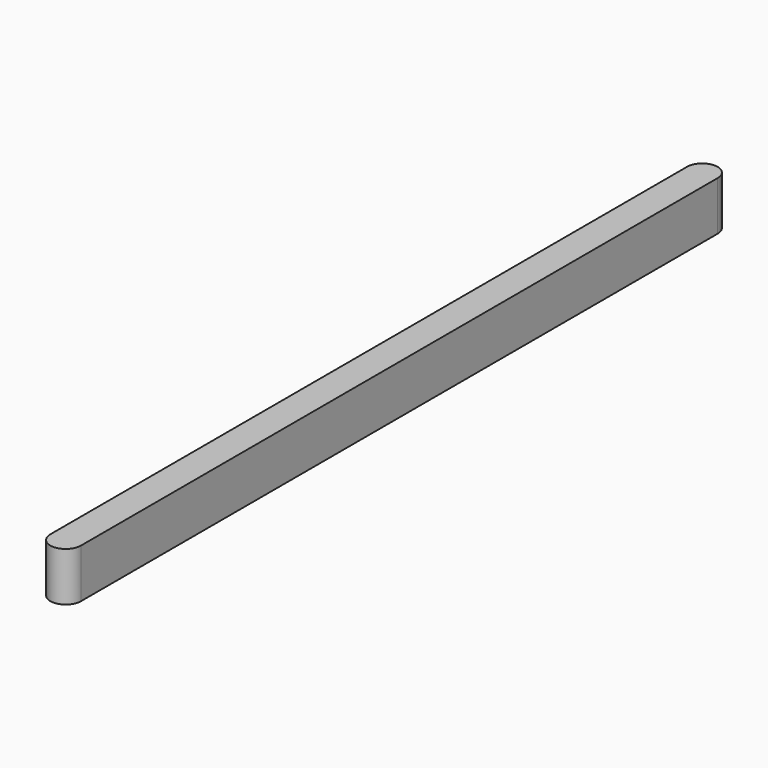
from build123d import *

# Parameters (mm, degrees)
F2_DEPTH = 20.32


with BuildPart() as f2:
    # F1 (on Top) → F2 (new body)
    with BuildSketch(Plane.XY):
        with BuildLine():
            ThreePointArc((6.35, 273.3012638089), (0, 279.6512638089), (-6.35, 273.3012638089))
            Line((-6.35, 273.3012638089), (6.35, 273.3012638089))
        make_face()
        with BuildLine():
            ThreePointArc((6.35, 273.3012638089), (0, 266.9512638089), (-6.35, 273.3012638089))
            Line((-6.35, 273.3012638089), (-6.35, -56.8987361911))
            ThreePointArc((-6.35, -56.8987361911), (0, -50.5487361911), (6.35, -56.8987361911))
            Line((6.35, -56.8987361911), (6.35, 273.3012638089))
        make_face()
        with BuildLine():
            Line((6.35, 273.3012638089), (-6.35, 273.3012638089))
            ThreePointArc((-6.35, 273.3012638089), (0, 266.9512638089), (6.35, 273.3012638089))
        make_face()
        with BuildLine():
            ThreePointArc((6.35, -56.8987361911), (0, -50.5487361911), (-6.35, -56.8987361911))
            Line((-6.35, -56.8987361911), (6.35, -56.8987361911))
        make_face()
        with BuildLine():
            Line((6.35, -56.8987361911), (-6.35, -56.8987361911))
            ThreePointArc((-6.35, -56.8987361911), (0, -63.2487361911), (6.35, -56.8987361911))
        make_face()
    extrude(amount=F2_DEPTH)


solid = f2.part
